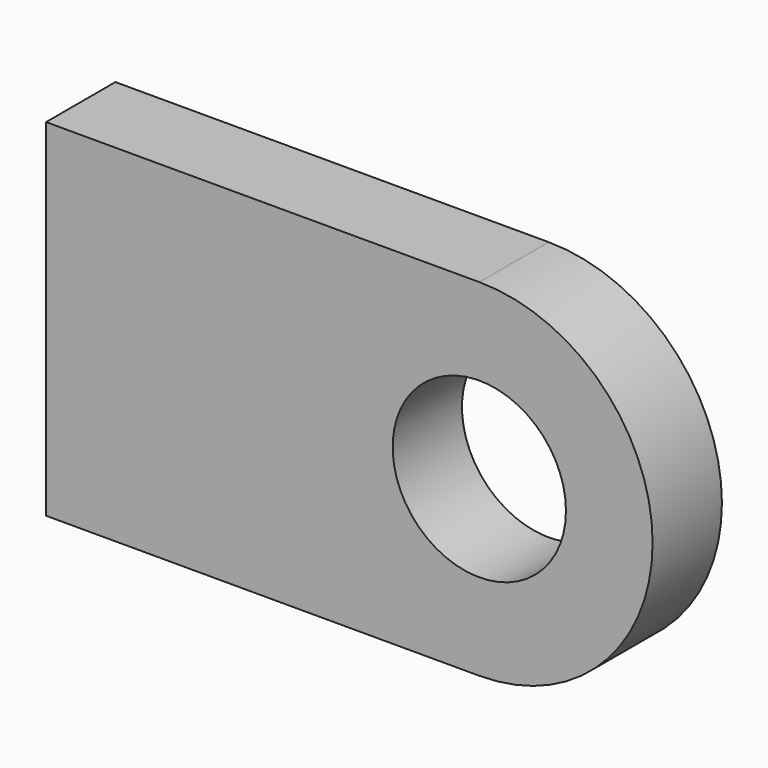
from build123d import *

# Parameters (mm, degrees)
F0_R     = 12.7
F1_DEPTH = 12.7


with BuildPart() as f1:
    # F0 (on Front) → F1 (new body)
    with BuildSketch(Plane.XZ):
        with BuildLine():
            ThreePointArc((19.05, -25.4), (44.45, 0), (19.05, 25.4))
            Line((19.05, 25.4), (-44.45, 25.4))
            Line((-44.45, 25.4), (-44.45, -25.4))
            Line((-44.45, -25.4), (19.05, -25.4))
        make_face()
        with Locations((19.05, 0)):
            Circle(F0_R, mode=Mode.SUBTRACT)
    extrude(amount=F1_DEPTH)


solid = f1.part
